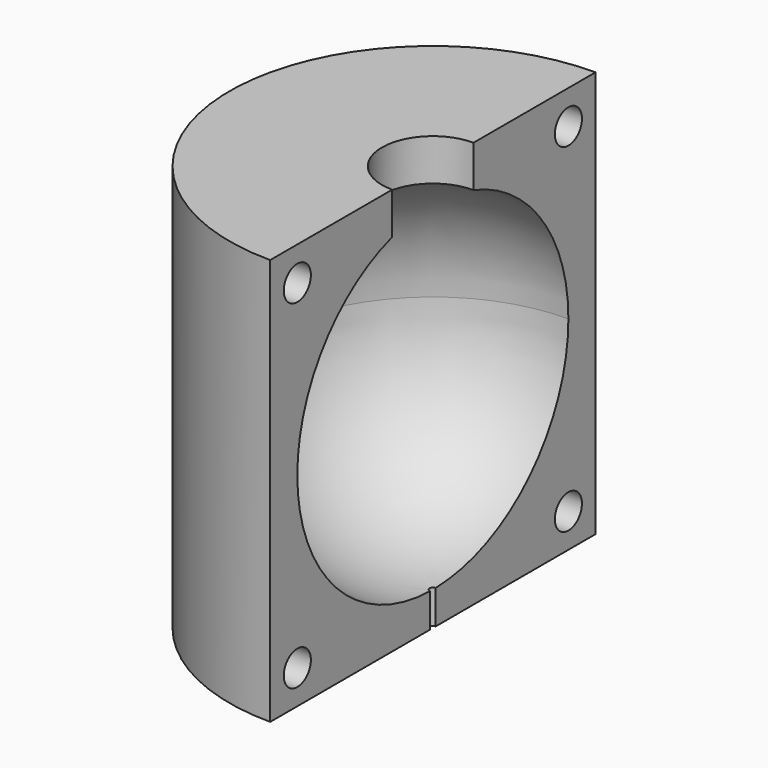
from build123d import *

# Parameters (mm, degrees)
F0_R     = 5
F1_ANGLE = -180
F2_DEPTH = 10


with BuildPart() as f1:
    # F0 (on Right) → F1 (revolve)
    with BuildSketch(Plane.YZ):
        with BuildLine():
            Line((-8.539474, 54.358603), (-8.539474, 64.358603))
            Line((-8.539474, 64.358603), (-53.539474, 64.358603))
            Line((-53.539474, 64.358603), (-53.539474, -55.641397))
            Line((-53.539474, -55.641397), (5.460526, -55.641397))
            Line((5.460526, -55.641397), (5.460526, -45.641397))
            Line((5.460526, -45.641397), (5.460526, -45.631396))
            ThreePointArc((5.460526, -45.631396), (-29.246616, -30.641397), (-43.539474, 4.358603))
            ThreePointArc((-43.539474, 4.358603), (-33.850762, 33.939002), (-8.539474, 52.055563))
            Line((-8.539474, 52.055563), (-8.539474, 54.358603))
        make_face()
        with Locations((-43.539474, -45.641397)):
            Circle(F0_R, mode=Mode.SUBTRACT)
        with Locations((-43.539474, 54.358603)):
            Circle(F0_R, mode=Mode.SUBTRACT)
        with Locations((-43.539474, 54.358603)):
            Circle(F0_R)
        with Locations((-43.539474, -45.641397)):
            Circle(F0_R)
    revolve(axis=Axis((0, 6.460526, 9.358603), (0, 0, 1)), revolution_arc=F1_ANGLE)

    # F0 (on Right) → F2 (cut)
    with BuildSketch(Plane.YZ):
        with Locations((-43.539474, 54.358603)):
            Circle(F0_R)
        with Locations((56.460526, 54.358603)):
            Circle(F0_R)
        with Locations((-43.539474, -45.641397)):
            Circle(F0_R)
        with Locations((56.460526, -45.641397)):
            Circle(F0_R)
    extrude(amount=-F2_DEPTH, mode=Mode.SUBTRACT)


solid = f1.part
